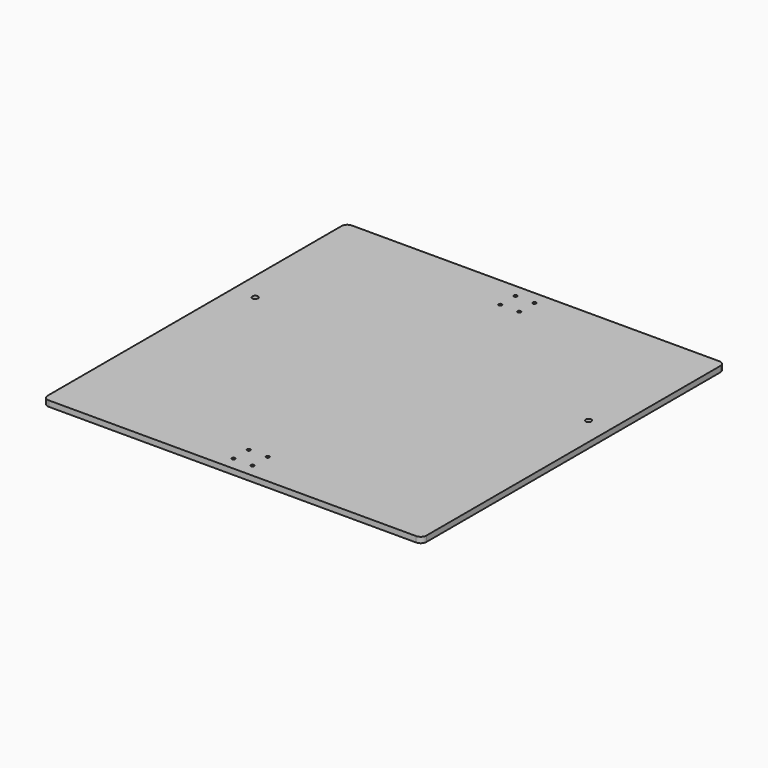
from build123d import *

# Parameters (mm, degrees)
F0_W     = 400
F0_H     = 400
F1_DEPTH = 6
F2_R     = 6
F3_R     = 3
F3_R_2   = 1.725
F4_DEPTH = 6


with BuildPart() as f1:
    # F0 (on Top) → F1 (new body)
    with BuildSketch(Plane.XY):
        with Locations((200, 200)):
            Rectangle(F0_W, F0_H)
    extrude(amount=F1_DEPTH)

    # F2
    f2_edges = [f1.edges().sort_by_distance(p)[0] for p in [
        (0, 400, 3),
        (400, 400, 3),
        (400, 0, 3),
        (0, 0, 3),
    ]]
    fillet(f2_edges, radius=F2_R)

    # F3 (on face) → F4 (cut, through all)
    with BuildSketch(Plane.XY.offset(6)):
        with Locations((24, 250)):
            Circle(F3_R)
        with Locations((376, 250)):
            Circle(F3_R)
        with Locations((190, 386)):
            Circle(F3_R_2)
        with Locations((210, 386)):
            Circle(F3_R_2)
        with Locations((210, 366)):
            Circle(F3_R_2)
        with Locations((190, 366)):
            Circle(F3_R_2)
        with Locations((190, 34)):
            Circle(F3_R_2)
        with Locations((210, 34)):
            Circle(F3_R_2)
        with Locations((210, 14)):
            Circle(F3_R_2)
        with Locations((190, 14)):
            Circle(F3_R_2)
    extrude(amount=-F4_DEPTH, mode=Mode.SUBTRACT)


solid = f1.part
